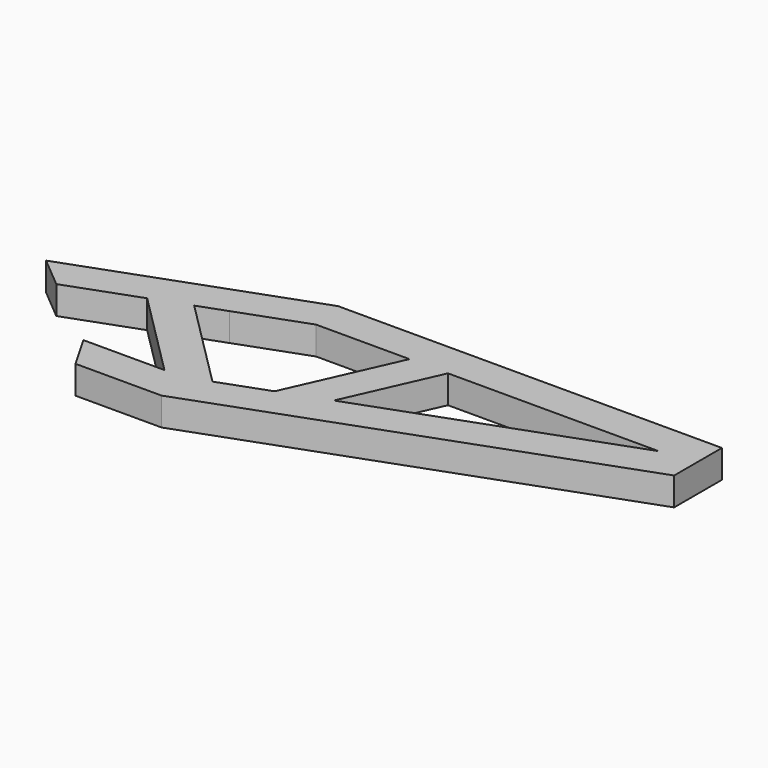
from build123d import *

# Parameters (mm, degrees)
F1_DEPTH = 4


with BuildPart() as f1:
    # F0 (on Top) → F1 (new body)
    with BuildSketch(Plane.XY):
        Polygon((24.537415, -0.560217), (12.99041, -0.560217), (15.877161, -5.560217), (28.120536, -5.560217), (84.63966, 15.011062), (84.63966, 23.512099), (29.986375, 23.512099), (-2.198178, 11.79788), (2.224582, 8.086744), (12.243769, 11.73343), align=None)
        Polygon((30.86801, 18.512099), (44.165368, 18.512099), (37.295009, 3.099907), (30.442477, 0.605789), (17.427949, 13.620317), (21.30836, 15.032671), align=None, mode=Mode.SUBTRACT)
        Polygon((43.829515, 5.478272), (49.63966, 18.512099), (79.63966, 18.512099), align=None, mode=Mode.SUBTRACT)
    extrude(amount=F1_DEPTH)


solid = f1.part
